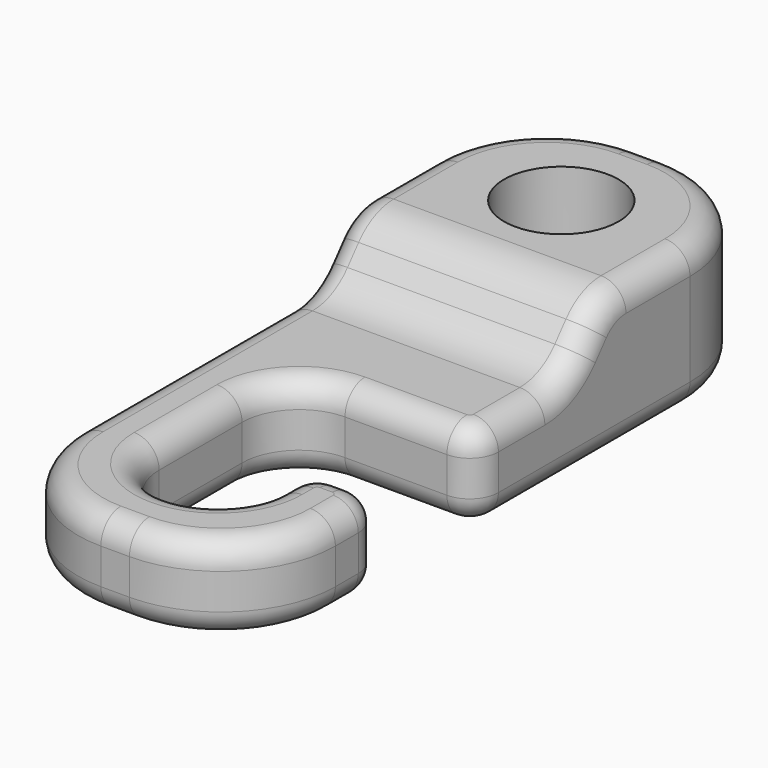
from build123d import *

# Parameters (mm, degrees)
F0_W     = 18
F0_H     = 47
F0_R     = 4
F1_DEPTH = 10
F3_DEPTH = 10
F4_R     = 2
F5_R     = 8
F8_DEPTH = 40.101
F9_R     = 4
F10_R    = 1.75


with BuildPart() as f1:
    # F0 (on Top) → F1 (new body)
    with BuildSketch(Plane.XY):
        with Locations((0, 14.5)):
            Rectangle(F0_W, F0_H)
        with Locations((0, 30)):
            Circle(F0_R, mode=Mode.SUBTRACT)
    extrude(amount=F1_DEPTH)

    # F2 (on face) → F3 (cut, through all)
    with BuildSketch(Plane.XY.offset(10)):
        with BuildLine():
            Line((-4.125, 7.25), (-4.125, 0))
            ThreePointArc((-4.125, 0), (0, -4.125), (4.125, 0))
            Line((4.125, 0), (4.125, 3))
            Line((4.125, 3), (9, 3))
            Line((9, 3), (9, 11.25))
            Line((9, 11.25), (-0.125, 11.25))
            ThreePointArc((-0.125, 11.25), (-2.9534271247, 10.0784271247), (-4.125, 7.25))
        make_face()
    extrude(amount=-F3_DEPTH, mode=Mode.SUBTRACT)

    # F4
    f4_edges = [f1.edges().sort_by_distance(p)[0] for p in [
        (9, 11.25, 5),
        (4.125, 3, 5),
        (9, 3, 5),
    ]]
    fillet(f4_edges, radius=F4_R)

    # F5
    f5_edges = [f1.edges().sort_by_distance(p)[0] for p in [
        (-9, 38, 5),
        (9, 38, 5),
        (9, -9, 5),
        (-9, -9, 5),
    ]]
    fillet(f5_edges, radius=F5_R)

    # F7 (on offset) → F8 (cut, through all)
    with BuildSketch(Plane.YZ.offset(31.1)):
        Polygon((-19.3344665721, 16.6492760181), (-18.773978632, 6), (19.1768726818, 6), (28.1374584883, 16.6492760181), align=None)
    extrude(amount=-F8_DEPTH, mode=Mode.SUBTRACT)

    # F9
    f9_edges = [f1.edges().sort_by_distance(p)[0] for p in [
        (0, 22.54258, 10),
        (0, 19.176873, 6),
    ]]
    fillet(f9_edges, radius=F9_R)

    # F10
    f10_edges = [f1.edges().sort_by_distance(p)[0] for p in [
        (-6.656854, 35.656854, 10),
        (6.656854, 35.656854, 10),
        (-6.656854, 35.656854, 0),
        (6.656854, 35.656854, 0),
    ]]
    fillet(f10_edges, radius=F10_R)


solid = f1.part
